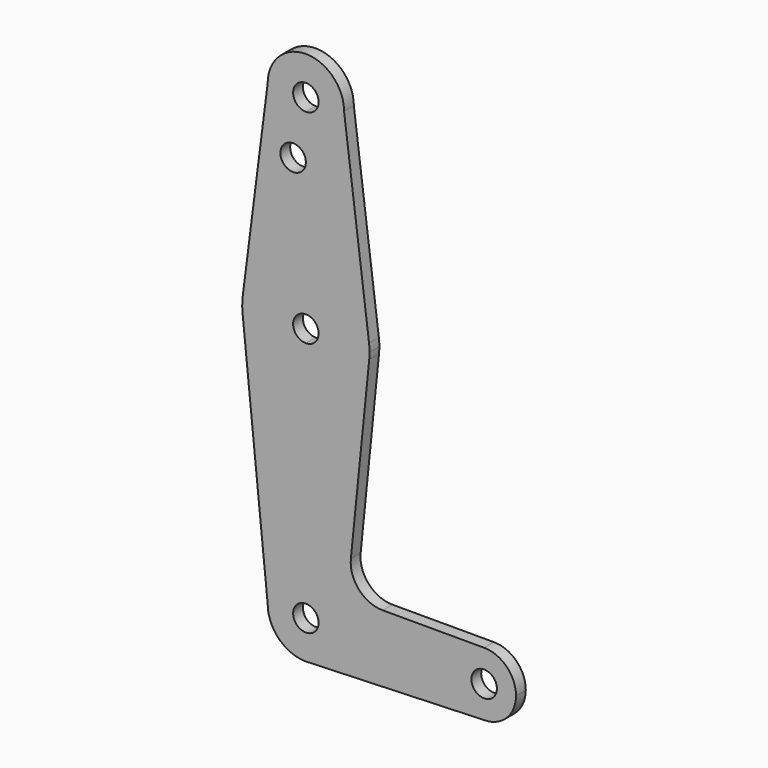
from build123d import *

# Parameters (mm, degrees)
F0_R     = 3.175
F1_DEPTH = 3.048


with BuildPart() as f1:
    # F0 (on Front) → F1 (new body)
    with BuildSketch(Plane.XZ):
        with BuildLine():
            ThreePointArc((3.175, 0), (-2.2450640303, -2.2450640303), (0, 3.175))
            Line((0, 3.175), (0, 9.525))
            ThreePointArc((0, 9.525), (-6.7351920908, 6.7351920908), (-9.525, 0))
            ThreePointArc((-9.525, 0), (-6.7351920908, -6.7351920908), (0, -9.525))
            Line((0, -9.525), (0.6794904459, -9.5007324841))
            ThreePointArc((0.6794904459, -9.5007324841), (6.9712901065, -6.4905114784), (9.525, 0))
            Line((9.525, 0), (3.175, 0))
        make_face()
        with BuildLine():
            ThreePointArc((-9.525, 0), (-6.7351920908, 6.7351920908), (0, 9.525))
            Line((0, 9.525), (0, 47.625))
            ThreePointArc((0, 47.625), (-10.644756084, 51.722700101), (-15.7942028036, 61.9003804205))
            Line((-15.7942028036, 61.9003804205), (-9.525, 0))
        make_face()
        with BuildLine():
            Line((0, 47.625), (0, 9.525))
            ThreePointArc((0, 9.525), (6.7351920908, 6.7351920908), (9.525, 0))
            Line((9.525, 0), (36.5125, 0))
            ThreePointArc((36.5125, 0), (38.8373399243, 5.6126600757), (44.45, 7.9375))
            Line((44.45, 7.9375), (19.1249591039, 7.9375))
            ThreePointArc((19.1249591039, 7.9375), (13.2268873144, 10.5568061531), (11.2152223398, 16.6887894854))
            Line((11.2152223398, 16.6887894854), (15.7942028036, 61.9003804205))
            ThreePointArc((15.7942028036, 61.9003804205), (10.644756084, 51.722700101), (0, 47.625))
        make_face()
        with BuildLine():
            Line((36.5125, 0), (9.525, 0))
            ThreePointArc((9.525, 0), (6.9712901065, -6.4905114784), (0.6794904459, -9.5007324841))
            Line((0.6794904459, -9.5007324841), (44.45, -7.9375))
            ThreePointArc((44.45, -7.9375), (38.8373399243, -5.6126600757), (36.5125, 0))
        make_face()
        with BuildLine():
            ThreePointArc((-15.7942028036, 61.9003804205), (-10.644756084, 51.722700101), (0, 47.625))
            Line((0, 47.625), (0, 60.325))
            ThreePointArc((0, 60.325), (-3.175, 63.5), (0, 66.675))
            Line((0, 66.675), (0, 79.375))
            ThreePointArc((0, 79.375), (-10.4912828548, 75.4142187767), (-15.7474569047, 65.5082893304))
            ThreePointArc((-15.7474569047, 65.5082893304), (-15.873667691, 63.7056672947), (-15.7942028036, 61.9003804205))
        make_face()
        with BuildLine():
            Line((0, 60.325), (0, 47.625))
            ThreePointArc((0, 47.625), (10.644756084, 51.722700101), (15.7942028036, 61.9003804205))
            ThreePointArc((15.7942028036, 61.9003804205), (15.8547878338, 62.6991705884), (15.875, 63.5))
            ThreePointArc((15.875, 63.5), (15.8430821396, 64.5061676396), (15.7474569047, 65.5082893304))
            ThreePointArc((15.7474569047, 65.5082893304), (10.4912828548, 75.4142187767), (0, 79.375))
            Line((0, 79.375), (0, 66.675))
            ThreePointArc((0, 66.675), (2.2450640303, 65.7450640303), (3.175, 63.5))
            ThreePointArc((3.175, 63.5), (2.2450640303, 61.2549359697), (0, 60.325))
        make_face()
        with BuildLine():
            ThreePointArc((44.45, 7.9375), (38.8373399243, 5.6126600757), (36.5125, 0))
            ThreePointArc((36.5125, 0), (38.8373399243, -5.6126600757), (44.45, -7.9375))
            ThreePointArc((44.45, -7.9375), (50.0626600757, -5.6126600757), (52.3875, 0))
            ThreePointArc((52.3875, 0), (50.0626600757, 5.6126600757), (44.45, 7.9375))
        make_face()
        with BuildLine():
            ThreePointArc((47.625, 0), (44.45, -3.175), (41.275, 0))
            ThreePointArc((41.275, 0), (44.45, 3.175), (47.625, 0))
        make_face(mode=Mode.SUBTRACT)
        with BuildLine():
            ThreePointArc((0, -9.525), (0.3399618281, -9.5189311877), (0.6794904459, -9.5007324841))
            Line((0.6794904459, -9.5007324841), (0, -9.525))
        make_face()
        with BuildLine():
            Line((-9.525, 114.3), (-15.7474569047, 65.5082893304))
            ThreePointArc((-15.7474569047, 65.5082893304), (-10.4912828548, 75.4142187767), (0, 79.375))
            Line((0, 79.375), (0, 100.0252))
            Line((0, 100.0252), (0, 104.775))
            ThreePointArc((0, 104.775), (-6.7351920908, 107.5648079092), (-9.525, 114.3))
        make_face()
        with Locations((-3.175, 100.0252)):
            Circle(F0_R, mode=Mode.SUBTRACT)
        with BuildLine():
            Line((0, 100.0252), (0, 79.375))
            ThreePointArc((0, 79.375), (10.4912828548, 75.4142187767), (15.7474569047, 65.5082893304))
            Line((15.7474569047, 65.5082893304), (9.525, 114.3))
            ThreePointArc((9.525, 114.3), (6.7351920908, 107.5648079092), (0, 104.775))
            Line((0, 104.775), (0, 100.0252))
        make_face()
        with BuildLine():
            ThreePointArc((9.525, 114.3), (0, 123.825), (-9.525, 114.3))
            ThreePointArc((-9.525, 114.3), (-6.7351920908, 107.5648079092), (0, 104.775))
            ThreePointArc((0, 104.775), (6.7351920908, 107.5648079092), (9.525, 114.3))
        make_face()
        with BuildLine():
            ThreePointArc((3.175, 114.3), (2.2450640303, 112.0549359697), (0, 111.125))
            ThreePointArc((0, 111.125), (-2.2450640303, 116.5450640303), (3.175, 114.3))
        make_face(mode=Mode.SUBTRACT)
        with BuildLine():
            Line((0, 9.525), (0, 3.175))
            ThreePointArc((0, 3.175), (2.2450640303, 2.2450640303), (3.175, 0))
            Line((3.175, 0), (9.525, 0))
            ThreePointArc((9.525, 0), (6.7351920908, 6.7351920908), (0, 9.525))
        make_face()
    extrude(amount=F1_DEPTH)


solid = f1.part
